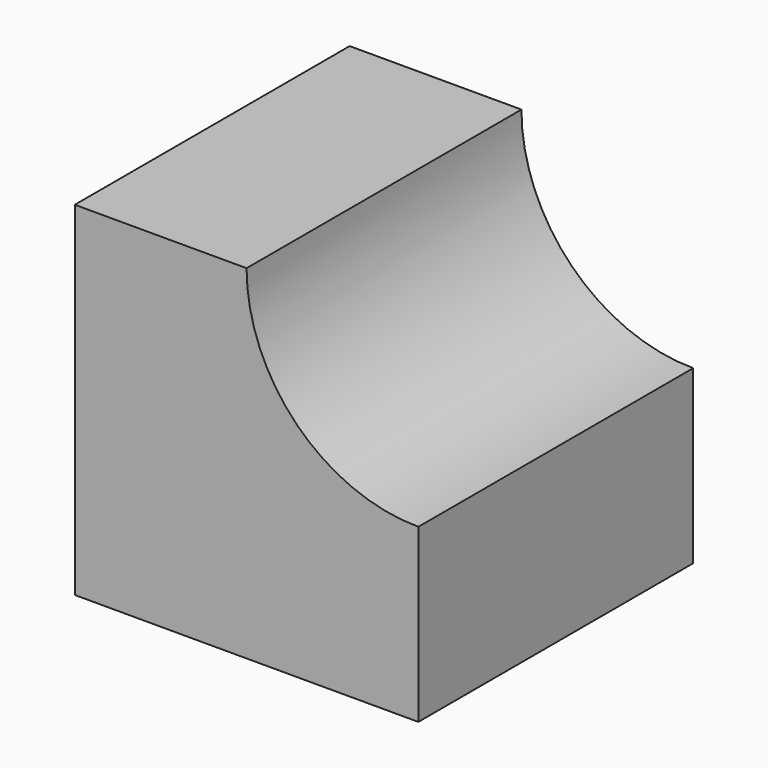
from build123d import *

# Parameters (mm, degrees)
F1_DEPTH = 50.8
F3_DEPTH = 50.8


with BuildPart() as f1:
    # F0 (on Front) → F1 (new body)
    with BuildSketch(Plane.XZ):
        Polygon((-25.4, 0), (0, 0), (25.4, 0), (25.4, 50.8), (-25.4, 50.8), align=None)
    extrude(amount=F1_DEPTH)

    # F2 (on face) → F3 (cut)
    with BuildSketch(Plane.XZ.offset(50.8)):
        with BuildLine():
            ThreePointArc((0, 50.8), (7.439488, 32.839488), (25.4, 25.4))
            Line((25.4, 25.4), (25.4, 50.8))
            Line((25.4, 50.8), (0, 50.8))
        make_face()
    extrude(amount=-F3_DEPTH, mode=Mode.SUBTRACT)


solid = f1.part
